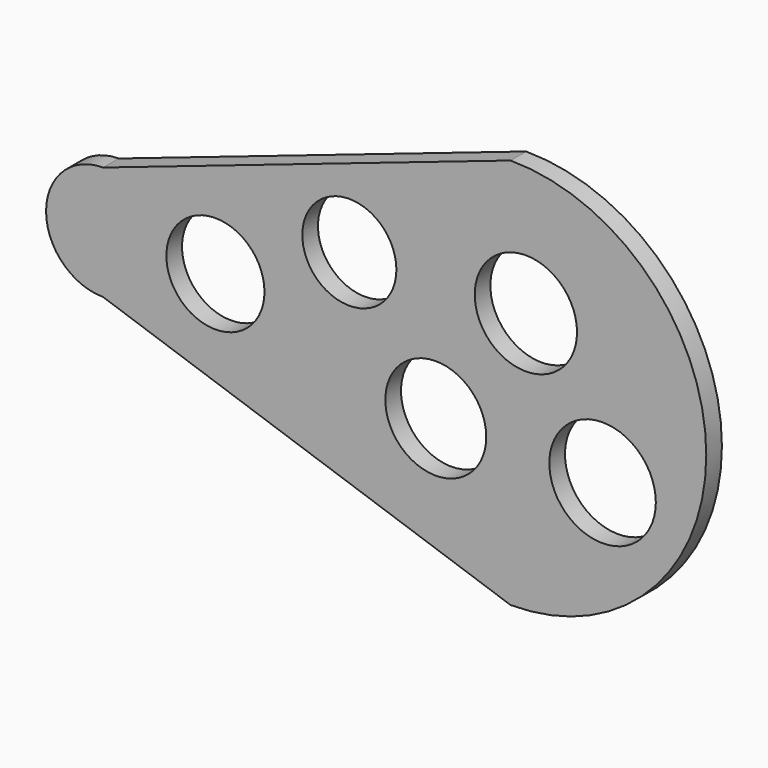
from build123d import *

# Parameters (mm, degrees)
F0_R     = 25.779753
F0_R_2   = 27.211414
F0_R_3   = 25.063657
F0_R_4   = 24.039394
F0_R_5   = 26.137612
F1_DEPTH = 10


with BuildPart() as f1:
    # F0 (on Front) → F1 (new body)
    with BuildSketch(Plane.XZ):
        with BuildLine():
            Line((-208.250865, -29.119577), (0, -100))
            ThreePointArc((0, -100), (100, 0), (0, 100))
            Line((0, 100), (-208.250865, 29.119577))
            ThreePointArc((-208.250865, 29.119577), (-237.370443, 0), (-208.250865, -29.119577))
        make_face()
        with Locations((-38.223118, -28.448781)):
            Circle(F0_R, mode=Mode.SUBTRACT)
        with Locations((47.01113, -29.693076)):
            Circle(F0_R_2, mode=Mode.SUBTRACT)
        with Locations((-150.831878, 0)):
            Circle(F0_R_3, mode=Mode.SUBTRACT)
        with Locations((-82.395613, 31.89956)):
            Circle(F0_R_4, mode=Mode.SUBTRACT)
        with Locations((7.815825, 33.766005)):
            Circle(F0_R_5, mode=Mode.SUBTRACT)
    extrude(amount=F1_DEPTH)


solid = f1.part
